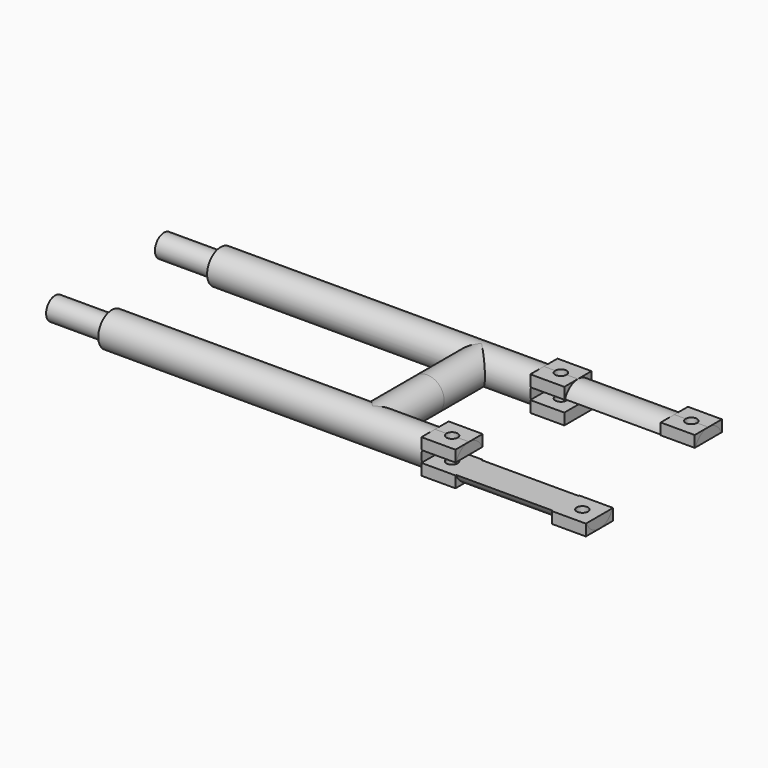
from build123d import *

# Parameters (mm, degrees)
F1_DEPTH      = 15
F2_R          = 7.5
F3_DEPTH      = 240
F4_R          = 7.5
F5_DEPTH      = 30
F5_DEPTH_BACK = 30
F6_W          = 15
F6_H          = 15
F7_DEPTH      = 15
F9_DEPTH      = 40.1
F11_DEPTH     = 54.1
F12_R         = 2.5
F13_DEPTH     = 25
F15_R         = 2.5
F16_DEPTH     = 25
F17_R         = 7.5
F17_R_2       = 5
F18_DEPTH     = 25


with BuildPart() as f1:
    # F0 (on Top) → F1 (new body)
    with BuildSketch(Plane.XY):
        Polygon((-240, -22.5), (-240, -37.5), (0, -37.5), (0, -22.5), (-100, -22.5), (-100, 22.5), (0, 22.5), (0, 37.5), (-240, 37.5), (-240, 22.5), (-115, 22.5), (-115, -22.5), align=None)
    extrude(amount=F1_DEPTH)

    # F2 (on Right) → F3 (intersect)
    with BuildSketch(Plane.YZ):
        with Locations((-30, 7.5)):
            Circle(F2_R)
        with Locations((30, 7.5)):
            Circle(F2_R)
    extrude(amount=-F3_DEPTH, mode=Mode.INTERSECT)

    # F4 (on Front) → F5 (join, two sides)
    with BuildSketch(Plane.XZ) as f5_sk:
        with Locations((-100, 7.5)):
            Circle(F4_R)
    extrude(amount=F5_DEPTH)
    extrude(f5_sk.sketch, amount=-F5_DEPTH_BACK)

    # F6 (on Top) → F7 (join)
    with BuildSketch(Plane.XY):
        with Locations((-65, 30)):
            Rectangle(F6_W, F6_H)
        with Locations((-65, -30)):
            Rectangle(F6_W, F6_H)
        with Locations((-7.5, 30)):
            Rectangle(F6_W, F6_H)
        with Locations((-7.5, -30)):
            Rectangle(F6_W, F6_H)
    extrude(amount=F7_DEPTH)

    # F8 (on Front) → F9 (cut)
    with BuildSketch(Plane.XZ):
        Polygon((0, 0), (0, 10), (-72.5, 10), (-72.5, 5), (-57.5, 5), (-57.5, 0), align=None)
    extrude(amount=-F9_DEPTH, mode=Mode.SUBTRACT)

    # F10 (on Front) → F11 (cut)
    with BuildSketch(Plane.XZ):
        Polygon((0, 5), (0, 15), (-57.5, 15), (-57.5, 10), (-72.5, 10), (-72.5, 5), (-57.5, 5), align=None)
    extrude(amount=F11_DEPTH, mode=Mode.SUBTRACT)

    # F12 (on Top) → F13 (cut)
    with BuildSketch(Plane.XY):
        with Locations((-65, 30)):
            Circle(F12_R)
        with Locations((-65, -30)):
            Circle(F12_R)
        with Locations((-7.5, -30)):
            Circle(F12_R)
        with Locations((-7.5, 30)):
            Circle(F12_R)
    extrude(amount=F13_DEPTH, mode=Mode.SUBTRACT)

    # F15 (on offset) → F16 (cut)
    with BuildSketch(Plane(origin=(-240, 0, 0), x_dir=(0, -1, 0), z_dir=(-1, 0, 0))):
        with Locations((30, 7.5)):
            Circle(F15_R)
        with Locations((-30, 7.5)):
            Circle(F15_R)
    extrude(amount=-F16_DEPTH, mode=Mode.SUBTRACT)

    # F17 (on offset) → F18 (cut)
    with BuildSketch(Plane(origin=(-240, 0, 0), x_dir=(0, -1, 0), z_dir=(-1, 0, 0))):
        with Locations((30, 7.5)):
            Circle(F17_R)
        with Locations((30, 7.5)):
            Circle(F17_R_2, mode=Mode.SUBTRACT)
        with Locations((-30, 7.5)):
            Circle(F17_R)
        with Locations((-30, 7.5)):
            Circle(F17_R_2, mode=Mode.SUBTRACT)
    extrude(amount=-F18_DEPTH, mode=Mode.SUBTRACT)


solid = f1.part
